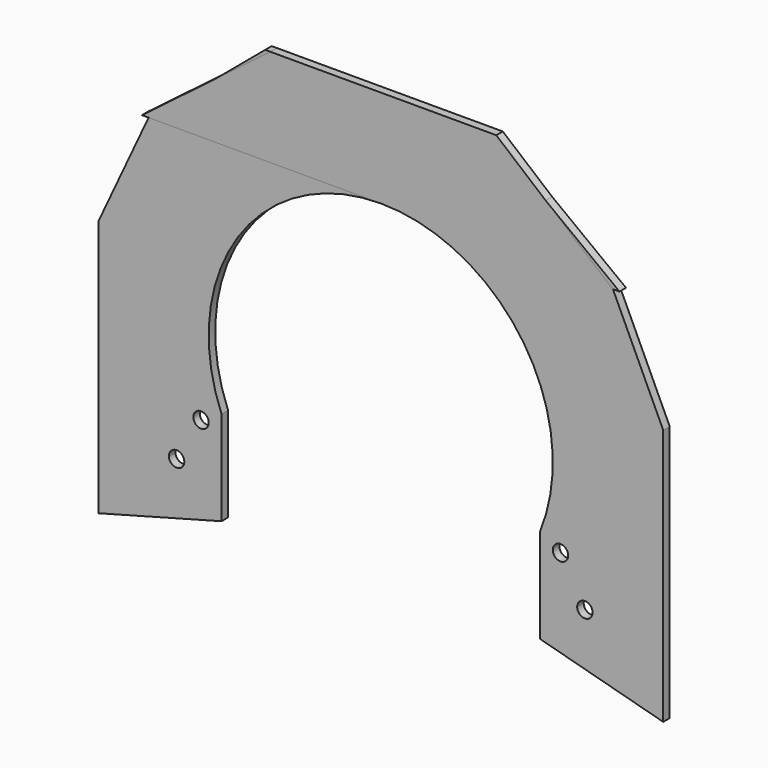
from build123d import *

# Parameters (mm, degrees)
F0_R     = 3
F1_DEPTH = 3.175


with BuildPart() as f1:
    # F0 (on Front) → F1 (new body)
    with BuildSketch(Plane.XZ):
        with BuildLine():
            ThreePointArc((-62, -25.3968501984), (-55.6353707784, 37.3323655606), (0, 67))
            Line((0, 67), (93, 67))
            Line((93, 67), (43, 105))
            Line((43, 105), (-45, 105))
            Line((-45, 105), (-90.4976391801, 66.8229477445))
            Line((-90.4976391801, 66.8229477445), (-110, 25))
            Line((-110, 25), (-110, -75))
            Line((-110, -75), (-62, -62.1384387633))
            Line((-62, -62.1384387633), (-62, -25.3968501984))
        make_face()
        Polygon((-68.3660254038, -25.1698729811), (-63.1698729811, -28.1698729811), (-72.1845916068, -43.7838236568), (-80.6698729811, -58.4807621135), (-81.5358983849, -57.9807621135), (-84.4587142242, -47.0726649), (-84.8301270189, -45.6865334795), (-72.9848275573, -25.1698729811), align=None, mode=Mode.SUBTRACT)
        with BuildLine():
            Line((-72.1845916068, -43.7838236568), (-63.1698729811, -28.1698729811))
            Line((-63.1698729811, -28.1698729811), (-68.3660254038, -25.1698729811))
            Line((-68.3660254038, -25.1698729811), (-72.9848275573, -25.1698729811))
            Line((-72.9848275573, -25.1698729811), (-84.8301270189, -45.6865334795))
            Line((-84.8301270189, -45.6865334795), (-84.4587142242, -47.0726649))
            Line((-84.4587142242, -47.0726649), (-82.4985593839, -46.5474429935))
            ThreePointArc((-82.4985593839, -46.5474429935), (-80.2764571353, -43.556705193), (-76.856691238, -45.03570898))
            Line((-76.856691238, -45.03570898), (-72.1845916068, -43.7838236568))
        make_face()
        with Locations((-70, -30)):
            Circle(F0_R, mode=Mode.SUBTRACT)
        with BuildLine():
            Line((-80.6698729811, -58.4807621135), (-72.1845916068, -43.7838236568))
            Line((-72.1845916068, -43.7838236568), (-76.856691238, -45.03570898))
            ThreePointArc((-76.856691238, -45.03570898), (-76.5905390288, -45.7230205355), (-76.5, -46.4544826719))
            ThreePointArc((-76.5, -46.4544826719), (-79.4535142582, -49.4541224963), (-82.4985593839, -46.5474429935))
            Line((-82.4985593839, -46.5474429935), (-84.4587142242, -47.0726649))
            Line((-84.4587142242, -47.0726649), (-81.5358983849, -57.9807621135))
            Line((-81.5358983849, -57.9807621135), (-80.6698729811, -58.4807621135))
        make_face()
        with BuildLine():
            Line((-72.1845916068, -43.7838236568), (-63.1698729811, -28.1698729811))
            Line((-63.1698729811, -28.1698729811), (-68.3660254038, -25.1698729811))
            Line((-68.3660254038, -25.1698729811), (-72.9848275573, -25.1698729811))
            Line((-72.9848275573, -25.1698729811), (-84.8301270189, -45.6865334795))
            Line((-84.8301270189, -45.6865334795), (-84.4587142242, -47.0726649))
            Line((-84.4587142242, -47.0726649), (-82.4985593839, -46.5474429935))
            ThreePointArc((-82.4985593839, -46.5474429935), (-80.2764571353, -43.556705193), (-76.856691238, -45.03570898))
            Line((-76.856691238, -45.03570898), (-72.1845916068, -43.7838236568))
        make_face()
        with Locations((-70, -30)):
            Circle(F0_R, mode=Mode.SUBTRACT)
    extrude(amount=F1_DEPTH)


with BuildPart() as f2_1:
    # F2: instance of F1
    add(f1.part.mirror(Plane.YZ))


solid = Compound([f1.part, f2_1.part])
